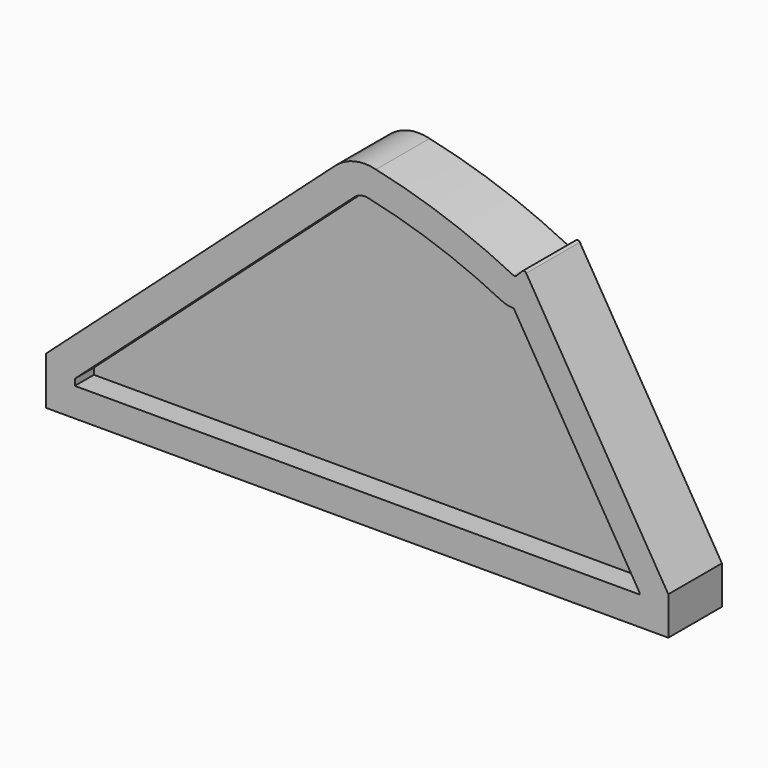
from build123d import *

# Parameters (mm, degrees)
F2_DEPTH = 3.5
F3_DEPTH = 1


with BuildPart() as f2:
    # F1 (on face) → F2 (new body, symmetric)
    with BuildSketch(Plane.XZ):
        with BuildLine():
            Line((-2.286308, 32.102048), (-32.5, 5))
            Line((-32.5, 5), (-32.5, 0))
            Line((-32.5, 0), (32.5, 0))
            Line((32.5, 0), (32.5, 4))
            Line((32.5, 4), (17.657075, 28.696322))
            ThreePointArc((17.657075, 28.696322), (17.473375, 28.828507), (17.258243, 28.758243))
            Line((17.258243, 28.758243), (16.611408, 28.111408))
            ThreePointArc((16.611408, 28.111408), (16.489934, 28.044379), (16.351427, 28.052438))
            ThreePointArc((16.351427, 28.052438), (9.312089, 31.038714), (1.957773, 33.132551))
            ThreePointArc((1.957773, 33.132551), (-0.293903, 33.151198), (-2.286308, 32.102048))
        make_face()
        with BuildLine():
            Line((16.35495, 25.039163), (29.500001, 3.16784))
            Line((29.500001, 3.16784), (29.500001, 2.999999))
            Line((29.500001, 2.999999), (-29.500001, 2.999999))
            Line((-29.500001, 2.999999), (-29.500001, 3.66094))
            Line((-29.500001, 3.66094), (-0.283103, 29.868852))
            ThreePointArc((-0.283103, 29.868852), (0.435633, 30.241011), (1.244666, 30.217565))
            ThreePointArc((1.244666, 30.217565), (8.316297, 28.208802), (15.081898, 25.333087))
            ThreePointArc((15.081898, 25.333087), (15.703501, 25.121492), (16.35495, 25.039163))
        make_face(mode=Mode.SUBTRACT)
    extrude(amount=F2_DEPTH, both=True)

    # F1 (on face) → F3 (join, symmetric)
    with BuildSketch(Plane.XZ):
        with BuildLine():
            Line((29.500001, 2.999999), (29.500001, 3.16784))
            Line((29.500001, 3.16784), (16.35495, 25.039163))
            ThreePointArc((16.35495, 25.039163), (15.703501, 25.121492), (15.081898, 25.333087))
            ThreePointArc((15.081898, 25.333087), (8.316297, 28.208802), (1.244666, 30.217565))
            ThreePointArc((1.244666, 30.217565), (0.435633, 30.241011), (-0.283103, 29.868852))
            Line((-0.283103, 29.868852), (-29.500001, 3.66094))
            Line((-29.500001, 3.66094), (-29.500001, 2.999999))
            Line((-29.500001, 2.999999), (29.500001, 2.999999))
        make_face()
    extrude(amount=F3_DEPTH, both=True)


solid = f2.part
